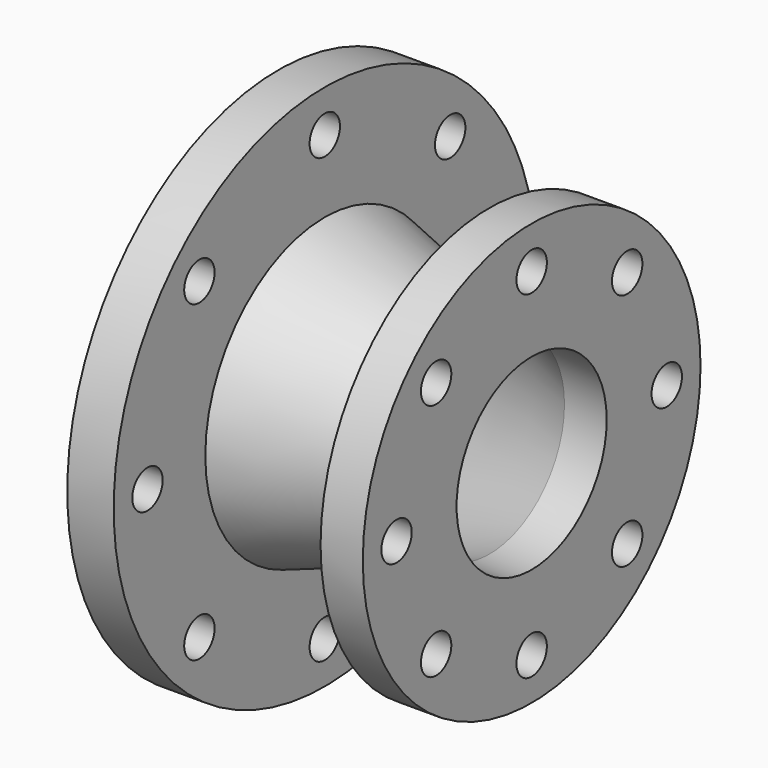
from build123d import *

# Parameters (mm, degrees)
F0_R     = 125
F0_R_2   = 9
F0_R_3   = 70.75
F0_R_4   = 69.85
F1_DEPTH = 22
F3_R     = 100
F3_R_2   = 9
F3_R_3   = 45.25
F3_R_4   = 44.45
F4_DEPTH = 20


with BuildPart() as f1:
    # F0 (on Right) → F1 (new body)
    with BuildSketch(Plane.YZ):
        Circle(F0_R)
        with Locations((-74.246212, -74.246212)):
            Circle(F0_R_2, mode=Mode.SUBTRACT)
        with Locations((0, -105)):
            Circle(F0_R_2, mode=Mode.SUBTRACT)
        with Locations((74.246212, -74.246212)):
            Circle(F0_R_2, mode=Mode.SUBTRACT)
        with Locations((-105, 0)):
            Circle(F0_R_2, mode=Mode.SUBTRACT)
        with Locations((-74.246212, 74.246212)):
            Circle(F0_R_2, mode=Mode.SUBTRACT)
        Circle(F0_R_3, mode=Mode.SUBTRACT)
        with Locations((105, 0)):
            Circle(F0_R_2, mode=Mode.SUBTRACT)
        with Locations((0, 105)):
            Circle(F0_R_2, mode=Mode.SUBTRACT)
        with Locations((74.246212, 74.246212)):
            Circle(F0_R_2, mode=Mode.SUBTRACT)
        Circle(F0_R_3)
        Circle(F0_R_4, mode=Mode.SUBTRACT)
    extrude(amount=F1_DEPTH)



with BuildPart() as f4:
    # F3 (on offset) → F4 (new body)
    with BuildSketch(Plane.YZ.offset(100)):
        Circle(F3_R)
        with Locations((-56.568542, -56.568542)):
            Circle(F3_R_2, mode=Mode.SUBTRACT)
        with Locations((0, -80)):
            Circle(F3_R_2, mode=Mode.SUBTRACT)
        with Locations((56.568542, -56.568542)):
            Circle(F3_R_2, mode=Mode.SUBTRACT)
        with Locations((-80, 0)):
            Circle(F3_R_2, mode=Mode.SUBTRACT)
        with Locations((-56.568542, 56.568542)):
            Circle(F3_R_2, mode=Mode.SUBTRACT)
        Circle(F3_R_3, mode=Mode.SUBTRACT)
        with Locations((80, 0)):
            Circle(F3_R_2, mode=Mode.SUBTRACT)
        with Locations((0, 80)):
            Circle(F3_R_2, mode=Mode.SUBTRACT)
        with Locations((56.568542, 56.568542)):
            Circle(F3_R_2, mode=Mode.SUBTRACT)
        Circle(F3_R_3)
        Circle(F3_R_4, mode=Mode.SUBTRACT)
    extrude(amount=F4_DEPTH)


with BuildPart() as f1_1:
    add(f1.part)

    add(f4.part)  # F7 merges F4
    # F6 (on Front) → F7 (revolve)
    with BuildSketch(Plane.XZ):
        Polygon((100, 45.25), (22, 70.75), (22, 69.85), (100, 44.45), align=None)
    revolve(axis=Axis((82.332404, 0, 0), (1, 0, 0)))


solid = f1_1.part
